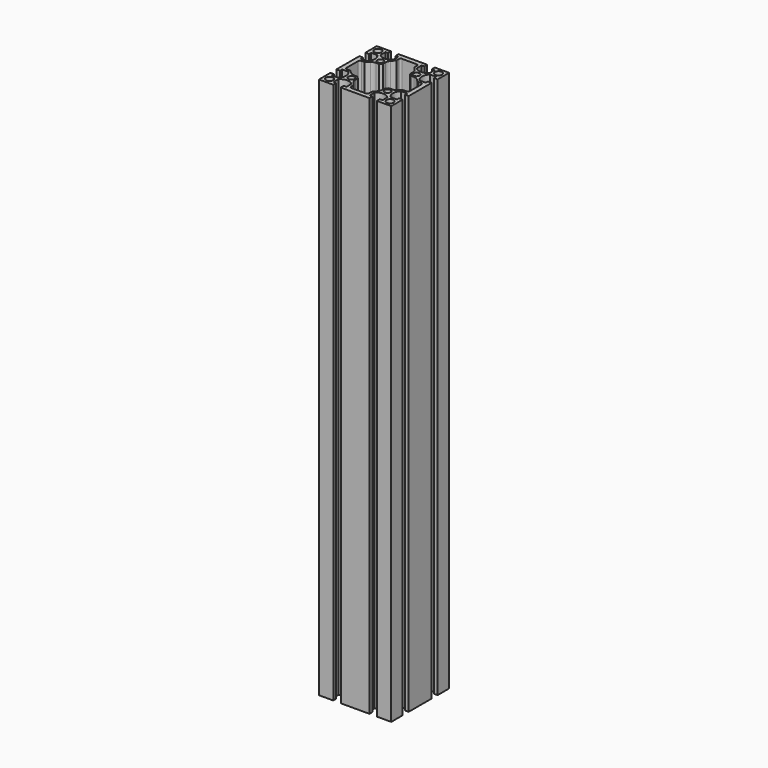
from build123d import *

# Parameters (mm, degrees)
F0_R     = 4
F0_R_2   = 3.4
F1_DEPTH = 600
F2_R     = 2
F3_R     = 7


with BuildPart() as f1:
    # F0 (on Top) → F1 (new body)
    with BuildSketch(Plane.XY):
        with BuildLine():
            Line((24.15, -40), (40, -40))
            Line((40, -40), (40, -24.15))
            Line((40, -24.15), (36, -24.15))
            Line((36, -24.15), (36, -27.15))
            Line((36, -27.15), (29.244802, -27.15))
            ThreePointArc((29.244802, -27.15), (26, -20), (29.244802, -12.85))
            Line((29.244802, -12.85), (36, -12.85))
            Line((36, -12.85), (36, -15.85))
            Line((36, -15.85), (40, -15.85))
            Line((40, -15.85), (40, 15.85))
            Line((40, 15.85), (36, 15.85))
            Line((36, 15.85), (36, 12.85))
            Line((36, 12.85), (29.244802, 12.85))
            ThreePointArc((29.244802, 12.85), (26, 20), (29.244802, 27.15))
            Line((29.244802, 27.15), (36, 27.15))
            Line((36, 27.15), (36, 24.15))
            Line((36, 24.15), (40, 24.15))
            Line((40, 24.15), (40, 40))
            Line((40, 40), (24.15, 40))
            Line((24.15, 40), (24.15, 36))
            Line((24.15, 36), (27.15, 36))
            Line((27.15, 36), (27.15, 29.244802))
            ThreePointArc((27.15, 29.244802), (20, 26), (12.85, 29.244802))
            Line((12.85, 29.244802), (12.85, 36))
            Line((12.85, 36), (15.85, 36))
            Line((15.85, 36), (15.85, 40))
            Line((15.85, 40), (-15.85, 40))
            Line((-15.85, 40), (-15.85, 36))
            Line((-15.85, 36), (-12.85, 36))
            Line((-12.85, 36), (-12.85, 29.244802))
            ThreePointArc((-12.85, 29.244802), (-20, 26), (-27.15, 29.244802))
            Line((-27.15, 29.244802), (-27.15, 36))
            Line((-27.15, 36), (-24.15, 36))
            Line((-24.15, 36), (-24.15, 40))
            Line((-24.15, 40), (-40, 40))
            Line((-40, 40), (-40, 24.15))
            Line((-40, 24.15), (-36, 24.15))
            Line((-36, 24.15), (-36, 27.15))
            Line((-36, 27.15), (-29.244802, 27.15))
            ThreePointArc((-29.244802, 27.15), (-26, 20), (-29.244802, 12.85))
            Line((-29.244802, 12.85), (-36, 12.85))
            Line((-36, 12.85), (-36, 15.85))
            Line((-36, 15.85), (-40, 15.85))
            Line((-40, 15.85), (-40, -15.85))
            Line((-40, -15.85), (-36, -15.85))
            Line((-36, -15.85), (-36, -12.85))
            Line((-36, -12.85), (-29.244802, -12.85))
            ThreePointArc((-29.244802, -12.85), (-26, -20), (-29.244802, -27.15))
            Line((-29.244802, -27.15), (-36, -27.15))
            Line((-36, -27.15), (-36, -24.15))
            Line((-36, -24.15), (-40, -24.15))
            Line((-40, -24.15), (-40, -40))
            Line((-40, -40), (-24.15, -40))
            Line((-24.15, -40), (-24.15, -36))
            Line((-24.15, -36), (-27.15, -36))
            Line((-27.15, -36), (-27.15, -29.244802))
            ThreePointArc((-27.15, -29.244802), (-20, -26), (-12.85, -29.244802))
            Line((-12.85, -29.244802), (-12.85, -36))
            Line((-12.85, -36), (-15.85, -36))
            Line((-15.85, -36), (-15.85, -40))
            Line((-15.85, -40), (15.85, -40))
            Line((15.85, -40), (15.85, -36))
            Line((15.85, -36), (12.85, -36))
            Line((12.85, -36), (12.85, -29.244802))
            ThreePointArc((12.85, -29.244802), (20, -26), (27.15, -29.244802))
            Line((27.15, -29.244802), (27.15, -36))
            Line((27.15, -36), (24.15, -36))
            Line((24.15, -36), (24.15, -40))
        make_face()
        with Locations((-33.5, -33.5)):
            Circle(F0_R, mode=Mode.SUBTRACT)
        with Locations((-20, -20)):
            Circle(F0_R_2, mode=Mode.SUBTRACT)
        with Locations((33.5, -33.5)):
            Circle(F0_R, mode=Mode.SUBTRACT)
        with Locations((20, -20)):
            Circle(F0_R_2, mode=Mode.SUBTRACT)
        with Locations((-33.5, 33.5)):
            Circle(F0_R, mode=Mode.SUBTRACT)
        with Locations((-20, 20)):
            Circle(F0_R_2, mode=Mode.SUBTRACT)
        Polygon((-10, 29.5), (-10, 35), (0, 35), (10, 35), (10, 29.5), (15, 23.5), (15, 17.5), (17.5, 15), (23.5, 15), (29.5, 10), (35, 10), (35, 0), (35, -10), (29.5, -10), (23.5, -15), (17.5, -15), (15, -17.5), (15, -23.5), (10, -29.5), (10, -35), (0, -35), (-10, -35), (-10, -29.5), (-15, -23.5), (-15, -17.5), (-17.5, -15), (-23.5, -15), (-29.5, -10), (-35, -10), (-35, 0), (-35, 10), (-29.5, 10), (-23.5, 15), (-17.5, 15), (-15, 17.5), (-15, 23.5), align=None, mode=Mode.SUBTRACT)
        with Locations((20, 20)):
            Circle(F0_R_2, mode=Mode.SUBTRACT)
        with Locations((33.5, 33.5)):
            Circle(F0_R, mode=Mode.SUBTRACT)
    extrude(amount=F1_DEPTH)

    # F2
    f2_edges = [f1.edges().sort_by_distance(p)[0] for p in [
        (-10, 35, 300),
        (10, 35, 300),
        (35, 10, 300),
        (35, -10, 300),
        (-35, 10, 300),
        (-35, -10, 300),
        (10, -35, 300),
        (-10, -35, 300),
    ]]
    fillet(f2_edges, radius=F2_R)

    # F3
    f3_edges = [f1.edges().sort_by_distance(p)[0] for p in [
        (-15, 23.5, 300),
        (15, 23.5, 300),
        (23.5, 15, 300),
        (-23.5, 15, 300),
        (-23.5, -15, 300),
        (23.5, -15, 300),
        (15, -23.5, 300),
        (-15, -23.5, 300),
    ]]
    fillet(f3_edges, radius=F3_R)


solid = f1.part
